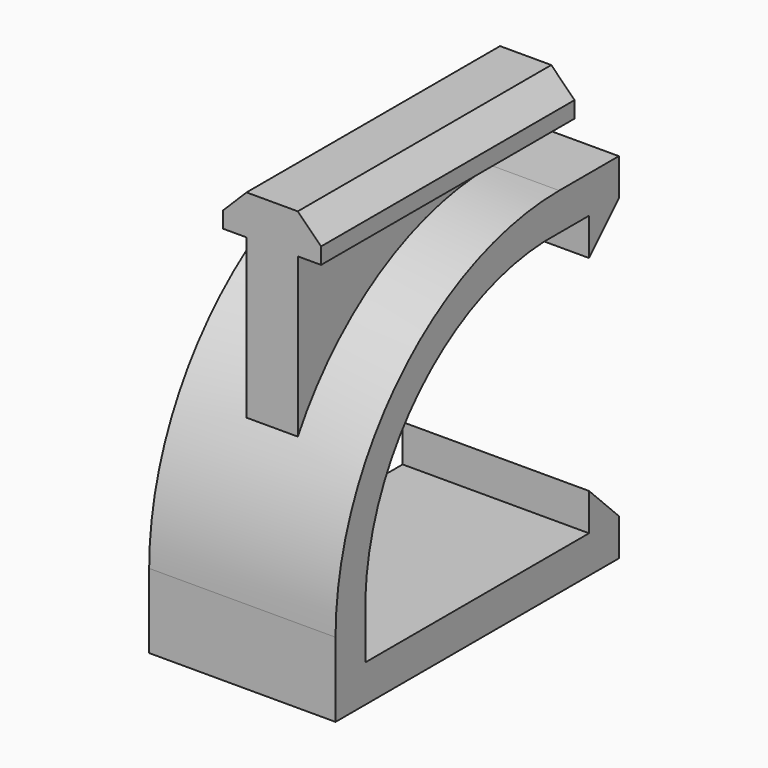
from build123d import *

# Parameters (mm, degrees)
F1_DEPTH   = 10
F2_DEPTH   = 10
F4_DEPTH   = 30
F5_DEPTH   = 4
F4_FACE1_W = 5.5
F4_FACE1_H = 26


with BuildPart() as f1:
    # F0 (on Right) → F1 (new body)
    with BuildSketch(Plane.YZ):
        with BuildLine():
            Line((0, 0), (-30, 0))
            Line((-30, 0), (-30, 4))
            ThreePointArc((-30, 4), (-22.698520979, 22.698520979), (-4, 30))
            Line((-4, 30), (0, 30))
            Line((0, 30), (0, 26))
            Line((0, 26), (4, 30))
            Line((4, 30), (4, 34))
            Line((4, 34), (0, 34))
            Line((0, 34), (-4, 34))
            ThreePointArc((-4, 34), (-25.2132034356, 25.2132034356), (-34, 4))
            Line((-34, 4), (-34, -4))
            Line((-34, -4), (-30, -4))
            Line((-30, -4), (0, -4))
            Line((0, -4), (4, -4))
            Line((4, -4), (4, 0))
            Line((4, 0), (0, 4))
            Line((0, 4), (0, 0))
        make_face()
    extrude(amount=-F1_DEPTH)

    # F2 (add): a face of the model
    f2_faces = [f1.faces().sort_by_distance(p)[0] for p in [
        (0, 3.4625988463, 32),
    ]]
    extrude(f2_faces, amount=F2_DEPTH)

    # F3 (on Front) → F4 (join)
    with BuildSketch(Plane.XZ):
        Polygon((0, 34), (2.75, 34), (2.75, 36), (5.25, 36), (5.25, 37.75), (2.75, 40.25), (-2.75, 40.25), (-5.25, 37.75), (-5.25, 36), (-2.75, 36), (-2.75, 34), align=None)
    extrude(amount=F4_DEPTH)

    # F5 (add): a face of the model
    f5_faces = [f1.faces().sort_by_distance(p)[0] for p in [
        (0, 0, 37.2652953586),
    ]]
    extrude(f5_faces, amount=F5_DEPTH)

    # F4_face1 (on face) → F6 (join, up to the next surface of F1)
    with BuildSketch(Plane(origin=(0, -17, 34), x_dir=(1, 0, 0), z_dir=(0, 0, -1))):
        Rectangle(F4_FACE1_W, F4_FACE1_H)
    extrude(until=Until.NEXT)


solid = f1.part
